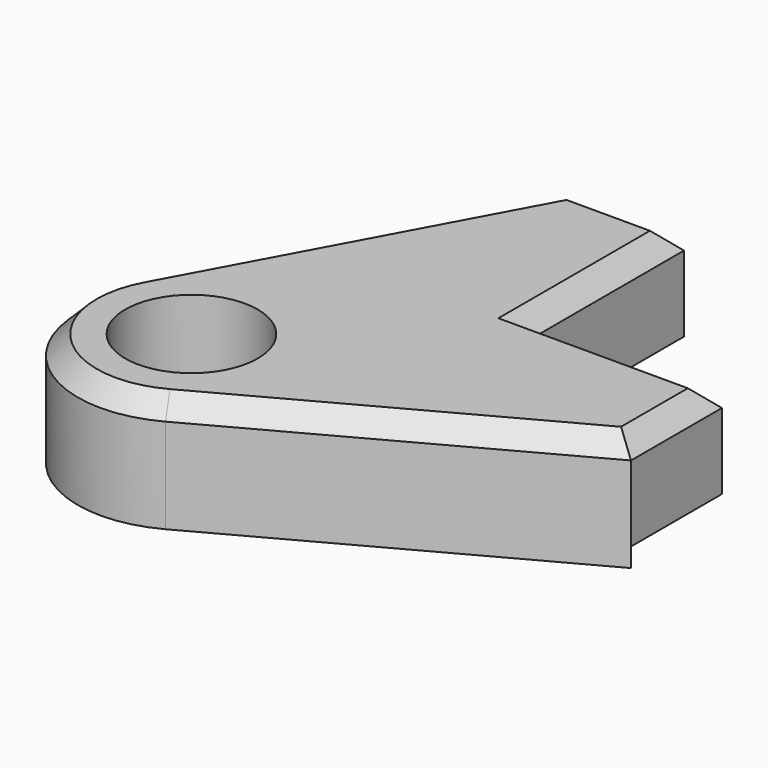
from build123d import *

# Parameters (mm, degrees)
F0_R     = 1.75
F1_DEPTH = 3
F2_DEPTH = 0.5
F3_SIZE  = 0.5
F4_SIZE  = 0.5


with BuildPart() as f1:
    # F0 (on Top) → F1 (new body)
    with BuildSketch(Plane.XY):
        Polygon((6.219204, 1.219204), (1.219204, 1.219204), (1.219204, 6.219204), (-1.780796, 6.219204), (-1.780796, -1.780796), (6.219204, -1.780796), align=None)
        with BuildLine():
            Line((-1.780796, -1.780796), (-1.780796, 6.219204))
            Line((-1.780796, 6.219204), (-6.419294, -2.353096))
            ThreePointArc((-6.419294, -2.353096), (-5.902116, -5.902116), (-2.353096, -6.419294))
            Line((-2.353096, -6.419294), (6.219204, -1.780796))
            Line((6.219204, -1.780796), (-1.780796, -1.780796))
        make_face()
        with Locations((-3.780796, -3.780796)):
            Circle(F0_R, mode=Mode.SUBTRACT)
    extrude(amount=F1_DEPTH)

    # F0 (on Top) → F2 (cut)
    with BuildSketch(Plane.XY):
        Polygon((6.219204, 1.219204), (1.219204, 1.219204), (1.219204, 6.219204), (-1.780796, 6.219204), (-1.780796, -1.780796), (6.219204, -1.780796), align=None)
    extrude(amount=F2_DEPTH, mode=Mode.SUBTRACT)

    # F3
    f3_edges = [f1.edges().sort_by_distance(p)[0] for p in [
        (1.933054, -4.100045, 3),
        (-5.902116, -5.902116, 3),
        (-4.100045, 1.933054, 3),
    ]]
    chamfer(f3_edges, length=F3_SIZE)

    # F4
    f4_edges = [f1.edges().sort_by_distance(p)[0] for p in [
        (6.219204, 0.003457, 3),
        (3.719204, 1.219204, 3),
        (1.219204, 3.719204, 3),
        (0.003457, 6.219204, 3),
    ]]
    chamfer(f4_edges, length=F4_SIZE)


solid = f1.part
